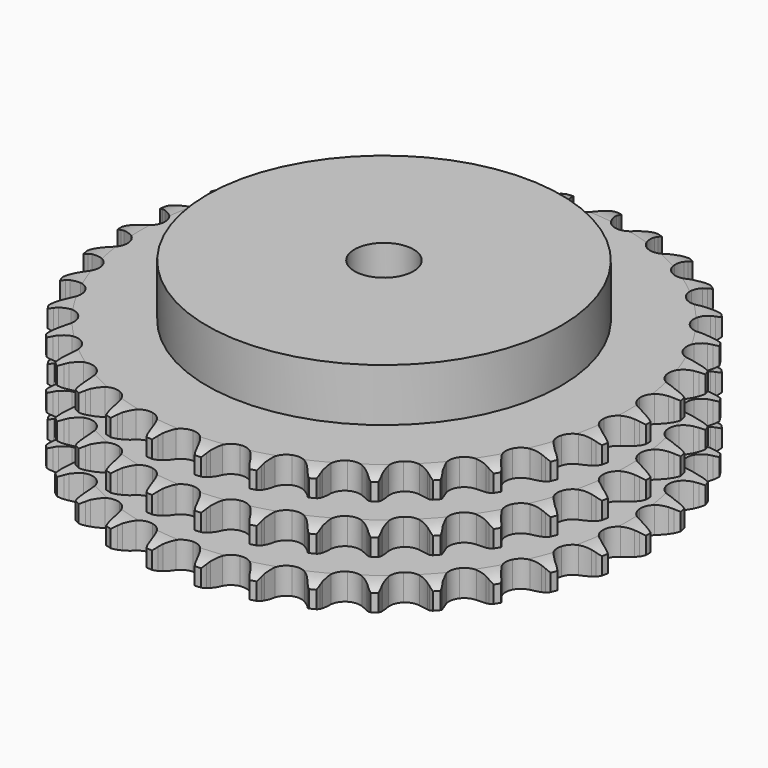
from build123d import *

# Parameters (mm, degrees)
PAD_DEPTH         = 42.1
SKETCH001_R       = 60
PAD001_DEPTH      = 60
SKETCH002_R       = 10
POCKET_DEPTH      = 0.001
POCKET_DEPTH_BACK = 60.001


with BuildPart() as part:
    # Sprocket → Pad (new body)
    with BuildSketch(Plane.XY):
        with BuildLine():
            ThreePointArc((-8.397927, 90.628064), (-7.241962, 89.220797), (-6.422502, 87.594409))
            Line((-6.422502, 87.594409), (-5.926845, 86.262465))
            ThreePointArc((-5.926845, 86.262465), (-5.142113, 84.540527), (-4.120459, 82.947699))
            ThreePointArc((-4.120459, 82.947699), (-2.304465, 81.427867), (0, 80.88274))
            ThreePointArc((0, 80.88274), (2.304465, 81.427867), (4.120459, 82.947699))
            ThreePointArc((4.120459, 82.947699), (5.142113, 84.540527), (5.926845, 86.262465))
            Line((5.926845, 86.262465), (6.422502, 87.594409))
            ThreePointArc((6.422502, 87.594409), (7.241962, 89.220797), (8.397927, 90.628064))
            ThreePointArc((8.397927, 90.628064), (9.275625, 89.032351), (9.782284, 87.28308))
            Line((9.782284, 87.28308), (10.024757, 85.882738))
            ThreePointArc((10.024757, 85.882738), (10.479723, 84.045925), (11.191299, 82.292489))
            ThreePointArc((11.191299, 82.292489), (12.697104, 80.464847), (14.862164, 79.505557))
            ThreePointArc((14.862164, 79.505557), (17.227559, 79.617958), (19.2919, 80.778225))
            Line((19.2919, 80.778225), (21.676616, 83.704628))
            ThreePointArc((21.676616, 83.704628), (22.026279, 84.323527), (22.408577, 84.922816))
            ThreePointArc((22.408577, 84.922816), (23.512932, 86.370937), (24.907799, 87.541834))
            ThreePointArc((24.907799, 87.541834), (25.477341, 85.812014), (25.653946, 83.99943))
            Line((25.653946, 83.99943), (25.634978, 82.578377))
            ThreePointArc((25.634978, 82.578377), (25.744684, 80.689239), (26.121952, 78.834908))
            ThreePointArc((26.121952, 78.834908), (27.266288, 76.761693), (29.218216, 75.420909))
            ThreePointArc((29.218216, 75.420909), (31.563988, 75.096756), (33.806379, 75.857945))
            Line((33.806379, 75.857945), (36.688215, 78.29633))
            ThreePointArc((36.688215, 78.29633), (37.145647, 78.840441), (37.631555, 79.359279))
            ThreePointArc((37.631555, 79.359279), (38.983198, 80.579818), (40.569466, 81.474471))
            ThreePointArc((40.569466, 81.474471), (40.811457, 79.669453), (40.651993, 77.855279))
            Line((40.651993, 77.855279), (40.372231, 76.461908))
            ThreePointArc((40.372231, 76.461908), (40.13294, 74.584778), (40.163052, 72.692697))
            ThreePointArc((40.163052, 72.692697), (40.906952, 70.444512), (42.579276, 68.767891))
            ThreePointArc((42.579276, 68.767891), (44.825544, 68.018223), (47.169622, 68.354413))
            Line((47.169622, 68.354413), (50.450442, 70.221744))
            ThreePointArc((50.450442, 70.221744), (51.000065, 70.672538), (51.573036, 71.093256))
            ThreePointArc((51.573036, 71.093256), (53.125937, 72.044649), (54.849589, 72.632594))
            ThreePointArc((54.849589, 72.632594), (54.755788, 70.813843), (54.265686, 69.059861))
            Line((54.265686, 69.059861), (53.734656, 67.741621))
            ThreePointArc((53.734656, 67.741621), (53.154518, 65.940422), (52.836448, 64.075025))
            ThreePointArc((52.836448, 64.075025), (53.154579, 61.728428), (54.490349, 59.773066))
            ThreePointArc((54.490349, 59.773066), (56.56062, 58.623411), (58.92656, 58.523154))
            Line((58.92656, 58.523154), (62.494639, 59.755841))
            ThreePointArc((62.494639, 59.755841), (63.117736, 60.097966), (63.758258, 60.406238))
            ThreePointArc((63.758258, 60.406238), (65.459537, 61.056087), (67.261874, 61.3173))
            ThreePointArc((67.261874, 61.3173), (66.835476, 59.546753), (66.031425, 57.912692))
            Line((66.031425, 57.912692), (65.267211, 56.714474))
            ThreePointArc((65.267211, 56.714474), (64.365982, 55.050544), (63.710562, 53.275354))
            ThreePointArc((63.710562, 53.275354), (63.59209, 50.910256), (64.54582, 48.74274))
            ThreePointArc((64.54582, 48.74274), (66.369591, 47.23225), (68.676824, 46.698959))
            Line((68.676824, 46.698959), (72.410656, 47.255025))
            ThreePointArc((72.410656, 47.255025), (73.086009, 47.47683), (73.77227, 47.662158))
            ThreePointArc((73.77227, 47.662158), (75.56399, 47.988332), (77.383638, 47.91392))
            ThreePointArc((77.383638, 47.91392), (76.639163, 46.25187), (75.548544, 44.793376))
            Line((75.548544, 44.793376), (74.57717, 43.755984))
            ThreePointArc((74.57717, 43.755984), (73.38554, 42.285986), (72.415089, 40.661455))
            ThreePointArc((72.415089, 40.661455), (71.864049, 38.358396), (72.403259, 36.052539))
            ThreePointArc((72.403259, 36.052539), (73.918426, 34.232651), (76.088382, 33.284488))
            Line((76.088382, 33.284488), (79.860815, 33.144995))
            ThreePointArc((79.860815, 33.144995), (80.565426, 33.238928), (81.274055, 33.295))
            ThreePointArc((81.274055, 33.295), (83.095203, 33.286393), (84.870194, 32.878888))
            ThreePointArc((84.870194, 32.878888), (83.832994, 31.381935), (82.492948, 30.148675))
            Line((82.492948, 30.148675), (81.347493, 29.307436))
            ThreePointArc((81.347493, 29.307436), (79.906041, 28.081429), (78.653607, 26.662879))
            ThreePointArc((78.653607, 26.662879), (77.688764, 24.500287), (77.795093, 22.134612))
            ThreePointArc((77.795093, 22.134612), (78.950057, 20.0673), (80.908841, 18.736552))
            Line((80.908841, 18.736552), (84.591409, 17.906252))
            ThreePointArc((84.591409, 17.906252), (85.301283, 17.869114), (86.00815, 17.794021))
            ThreePointArc((86.00815, 17.794021), (87.796708, 17.450926), (89.466597, 16.724205))
            ThreePointArc((89.466597, 16.724205), (88.171993, 15.443326), (86.628153, 14.477297))
            Line((86.628153, 14.477297), (85.347625, 13.860859))
            ThreePointArc((85.347625, 13.860859), (83.705438, 12.920593), (82.213671, 11.75633))
            ThreePointArc((82.213671, 11.75633), (80.867881, 9.807851), (80.537708, 7.462918))
            ThreePointArc((80.537708, 7.462918), (81.293139, 5.218581), (82.974047, 3.550566))
            Line((82.974047, 3.550566), (86.441345, 2.057734))
            ThreePointArc((86.441345, 2.057734), (87.132308, 1.890789), (87.813341, 1.687088))
            ThreePointArc((87.813341, 1.687088), (89.508401, 1.021188), (91.016323, 0))
            ThreePointArc((91.016323, 0), (89.508401, -1.021188), (87.813341, -1.687088))
            Line((87.813341, -1.687088), (86.441345, -2.057734))
            ThreePointArc((86.441345, -2.057734), (84.654346, -2.680238), (82.974047, -3.550566))
            ThreePointArc((82.974047, -3.550566), (81.293139, -5.218581), (80.537708, -7.462918))
            ThreePointArc((80.537708, -7.462918), (80.867881, -9.807851), (82.213671, -11.75633))
            Line((82.213671, -11.75633), (85.347625, -13.860859))
            ThreePointArc((85.347625, -13.860859), (85.996146, -14.151925), (86.628153, -14.477297))
            ThreePointArc((86.628153, -14.477297), (88.171993, -15.443326), (89.466597, -16.724205))
            ThreePointArc((89.466597, -16.724205), (87.796708, -17.450926), (86.00815, -17.794021))
            Line((86.00815, -17.794021), (84.591409, -17.906252))
            ThreePointArc((84.591409, -17.906252), (82.720453, -18.189798), (80.908841, -18.736552))
            ThreePointArc((80.908841, -18.736552), (78.950057, -20.0673), (77.795093, -22.134612))
            ThreePointArc((77.795093, -22.134612), (77.688764, -24.500287), (78.653607, -26.662879))
            Line((78.653607, -26.662879), (81.347493, -29.307436))
            ThreePointArc((81.347493, -29.307436), (81.931489, -29.712712), (82.492948, -30.148675))
            ThreePointArc((82.492948, -30.148675), (83.832994, -31.381935), (84.870194, -32.878888))
            ThreePointArc((84.870194, -32.878888), (83.095203, -33.286393), (81.274055, -33.295))
            Line((81.274055, -33.295), (79.860815, -33.144995))
            ThreePointArc((79.860815, -33.144995), (77.969613, -33.079925), (76.088382, -33.284488))
            ThreePointArc((76.088382, -33.284488), (73.918426, -34.232651), (72.403259, -36.052539))
            ThreePointArc((72.403259, -36.052539), (71.864049, -38.358396), (72.415089, -40.661455))
            Line((72.415089, -40.661455), (74.57717, -43.755984))
            ThreePointArc((74.57717, -43.755984), (75.076753, -44.261668), (75.548544, -44.793376))
            ThreePointArc((75.548544, -44.793376), (76.639163, -46.25187), (77.383638, -47.91392))
            ThreePointArc((77.383638, -47.91392), (75.56399, -47.988332), (73.77227, -47.662158))
            Line((73.77227, -47.662158), (72.410656, -47.255025))
            ThreePointArc((72.410656, -47.255025), (70.563612, -46.843555), (68.676824, -46.698959))
            ThreePointArc((68.676824, -46.698959), (66.369591, -47.23225), (64.54582, -48.74274))
            ThreePointArc((64.54582, -48.74274), (63.59209, -50.910256), (63.710562, -53.275354))
            Line((63.710562, -53.275354), (65.267211, -56.714474))
            ThreePointArc((65.267211, -56.714474), (65.665369, -57.303346), (66.031425, -57.912692))
            ThreePointArc((66.031425, -57.912692), (66.835476, -59.546753), (67.261874, -61.3173))
            ThreePointArc((67.261874, -61.3173), (65.459537, -61.056087), (63.758258, -60.406238))
            Line((63.758258, -60.406238), (62.494639, -59.755841))
            ThreePointArc((62.494639, -59.755841), (60.754652, -59.011984), (58.92656, -58.523154))
            ThreePointArc((58.92656, -58.523154), (56.56062, -58.623411), (54.490349, -59.773066))
            ThreePointArc((54.490349, -59.773066), (53.154579, -61.728428), (52.836448, -64.075025))
            Line((52.836448, -64.075025), (53.734656, -67.741621))
            ThreePointArc((53.734656, -67.741621), (54.017829, -68.393628), (54.265686, -69.059861))
            ThreePointArc((54.265686, -69.059861), (54.755788, -70.813843), (54.849589, -72.632594))
            ThreePointArc((54.849589, -72.632594), (53.125937, -72.044649), (51.573036, -71.093256))
            Line((51.573036, -71.093256), (50.450442, -70.221744))
            ThreePointArc((50.450442, -70.221744), (48.876765, -69.170831), (47.169622, -68.354413))
            ThreePointArc((47.169622, -68.354413), (44.825544, -68.018223), (42.579276, -68.767891))
            ThreePointArc((42.579276, -68.767891), (40.906952, -70.444512), (40.163052, -72.692697))
            Line((40.163052, -72.692697), (40.372231, -76.461908))
            ThreePointArc((40.372231, -76.461908), (40.530776, -77.154846), (40.651993, -77.855279))
            ThreePointArc((40.651993, -77.855279), (40.811457, -79.669453), (40.569466, -81.474471))
            ThreePointArc((40.569466, -81.474471), (38.983198, -80.579818), (37.631555, -79.359279))
            Line((37.631555, -79.359279), (36.688215, -78.29633))
            ThreePointArc((36.688215, -78.29633), (35.334438, -76.974148), (33.806379, -75.857945))
            ThreePointArc((33.806379, -75.857945), (31.563988, -75.096756), (29.218216, -75.420909))
            ThreePointArc((29.218216, -75.420909), (27.266288, -76.761693), (26.121952, -78.834908))
            Line((26.121952, -78.834908), (25.634978, -82.578377))
            ThreePointArc((25.634978, -82.578377), (25.663497, -83.288649), (25.653946, -83.99943))
            ThreePointArc((25.653946, -83.99943), (25.477341, -85.812014), (24.907799, -87.541834))
            ThreePointArc((24.907799, -87.541834), (23.512932, -86.370937), (22.408577, -84.922816))
            Line((22.408577, -84.922816), (21.676616, -83.704628))
            ThreePointArc((21.676616, -83.704628), (20.58884, -82.156203), (19.2919, -80.778225))
            ThreePointArc((19.2919, -80.778225), (17.227559, -79.617958), (14.862164, -79.505557))
            ThreePointArc((14.862164, -79.505557), (12.697104, -80.464847), (11.191299, -82.292489))
            Line((11.191299, -82.292489), (10.024757, -85.882738))
            ThreePointArc((10.024757, -85.882738), (9.922278, -86.586157), (9.782284, -87.28308))
            ThreePointArc((9.782284, -87.28308), (9.275625, -89.032351), (8.397927, -90.628064))
            ThreePointArc((8.397927, -90.628064), (7.241962, -89.220797), (6.422502, -87.594409))
            Line((6.422502, -87.594409), (5.926845, -86.262465))
            ThreePointArc((5.926845, -86.262465), (5.142113, -84.540527), (4.120459, -82.947699))
            ThreePointArc((4.120459, -82.947699), (2.304465, -81.427867), (0, -80.88274))
            ThreePointArc((0, -80.88274), (-2.304465, -81.427867), (-4.120459, -82.947699))
            Line((-4.120459, -82.947699), (-5.926845, -86.262465))
            ThreePointArc((-5.926845, -86.262465), (-6.156832, -86.935077), (-6.422502, -87.594409))
            ThreePointArc((-6.422502, -87.594409), (-7.241962, -89.220797), (-8.397927, -90.628064))
            ThreePointArc((-8.397927, -90.628064), (-9.275625, -89.032351), (-9.782284, -87.28308))
            Line((-9.782284, -87.28308), (-10.024757, -85.882738))
            ThreePointArc((-10.024757, -85.882738), (-10.479723, -84.045925), (-11.191299, -82.292489))
            ThreePointArc((-11.191299, -82.292489), (-12.697104, -80.464847), (-14.862164, -79.505557))
            ThreePointArc((-14.862164, -79.505557), (-17.227559, -79.617958), (-19.2919, -80.778225))
            Line((-19.2919, -80.778225), (-21.676616, -83.704628))
            ThreePointArc((-21.676616, -83.704628), (-22.026279, -84.323527), (-22.408577, -84.922816))
            ThreePointArc((-22.408577, -84.922816), (-23.512932, -86.370937), (-24.907799, -87.541834))
            ThreePointArc((-24.907799, -87.541834), (-25.477341, -85.812014), (-25.653946, -83.99943))
            Line((-25.653946, -83.99943), (-25.634978, -82.578377))
            ThreePointArc((-25.634978, -82.578377), (-25.744684, -80.689239), (-26.121952, -78.834908))
            ThreePointArc((-26.121952, -78.834908), (-27.266288, -76.761693), (-29.218216, -75.420909))
            ThreePointArc((-29.218216, -75.420909), (-31.563988, -75.096756), (-33.806379, -75.857945))
            Line((-33.806379, -75.857945), (-36.688215, -78.29633))
            ThreePointArc((-36.688215, -78.29633), (-37.145647, -78.840441), (-37.631555, -79.359279))
            ThreePointArc((-37.631555, -79.359279), (-38.983198, -80.579818), (-40.569466, -81.474471))
            ThreePointArc((-40.569466, -81.474471), (-40.811457, -79.669453), (-40.651993, -77.855279))
            Line((-40.651993, -77.855279), (-40.372231, -76.461908))
            ThreePointArc((-40.372231, -76.461908), (-40.13294, -74.584778), (-40.163052, -72.692697))
            ThreePointArc((-40.163052, -72.692697), (-40.906952, -70.444512), (-42.579276, -68.767891))
            ThreePointArc((-42.579276, -68.767891), (-44.825544, -68.018223), (-47.169622, -68.354413))
            Line((-47.169622, -68.354413), (-50.450442, -70.221744))
            ThreePointArc((-50.450442, -70.221744), (-51.000065, -70.672538), (-51.573036, -71.093256))
            ThreePointArc((-51.573036, -71.093256), (-53.125937, -72.044649), (-54.849589, -72.632594))
            ThreePointArc((-54.849589, -72.632594), (-54.755788, -70.813843), (-54.265686, -69.059861))
            Line((-54.265686, -69.059861), (-53.734656, -67.741621))
            ThreePointArc((-53.734656, -67.741621), (-53.154518, -65.940422), (-52.836448, -64.075025))
            ThreePointArc((-52.836448, -64.075025), (-53.154579, -61.728428), (-54.490349, -59.773066))
            ThreePointArc((-54.490349, -59.773066), (-56.56062, -58.623411), (-58.92656, -58.523154))
            Line((-58.92656, -58.523154), (-62.494639, -59.755841))
            ThreePointArc((-62.494639, -59.755841), (-63.117736, -60.097966), (-63.758258, -60.406238))
            ThreePointArc((-63.758258, -60.406238), (-65.459537, -61.056087), (-67.261874, -61.3173))
            ThreePointArc((-67.261874, -61.3173), (-66.835476, -59.546753), (-66.031425, -57.912692))
            Line((-66.031425, -57.912692), (-65.267211, -56.714474))
            ThreePointArc((-65.267211, -56.714474), (-64.365982, -55.050544), (-63.710562, -53.275354))
            ThreePointArc((-63.710562, -53.275354), (-63.59209, -50.910256), (-64.54582, -48.74274))
            ThreePointArc((-64.54582, -48.74274), (-66.369591, -47.23225), (-68.676824, -46.698959))
            Line((-68.676824, -46.698959), (-72.410656, -47.255025))
            ThreePointArc((-72.410656, -47.255025), (-73.086009, -47.47683), (-73.77227, -47.662158))
            ThreePointArc((-73.77227, -47.662158), (-75.56399, -47.988332), (-77.383638, -47.91392))
            ThreePointArc((-77.383638, -47.91392), (-76.639163, -46.25187), (-75.548544, -44.793376))
            Line((-75.548544, -44.793376), (-74.57717, -43.755984))
            ThreePointArc((-74.57717, -43.755984), (-73.38554, -42.285986), (-72.415089, -40.661455))
            ThreePointArc((-72.415089, -40.661455), (-71.864049, -38.358396), (-72.403259, -36.052539))
            ThreePointArc((-72.403259, -36.052539), (-73.918426, -34.232651), (-76.088382, -33.284488))
            Line((-76.088382, -33.284488), (-79.860815, -33.144995))
            ThreePointArc((-79.860815, -33.144995), (-80.565426, -33.238928), (-81.274055, -33.295))
            ThreePointArc((-81.274055, -33.295), (-83.095203, -33.286393), (-84.870194, -32.878888))
            ThreePointArc((-84.870194, -32.878888), (-83.832994, -31.381935), (-82.492948, -30.148675))
            Line((-82.492948, -30.148675), (-81.347493, -29.307436))
            ThreePointArc((-81.347493, -29.307436), (-79.906041, -28.081429), (-78.653607, -26.662879))
            ThreePointArc((-78.653607, -26.662879), (-77.688764, -24.500287), (-77.795093, -22.134612))
            ThreePointArc((-77.795093, -22.134612), (-78.950057, -20.0673), (-80.908841, -18.736552))
            Line((-80.908841, -18.736552), (-84.591409, -17.906252))
            ThreePointArc((-84.591409, -17.906252), (-85.301283, -17.869114), (-86.00815, -17.794021))
            ThreePointArc((-86.00815, -17.794021), (-87.796708, -17.450926), (-89.466597, -16.724205))
            ThreePointArc((-89.466597, -16.724205), (-88.171993, -15.443326), (-86.628153, -14.477297))
            Line((-86.628153, -14.477297), (-85.347625, -13.860859))
            ThreePointArc((-85.347625, -13.860859), (-83.705438, -12.920593), (-82.213671, -11.75633))
            ThreePointArc((-82.213671, -11.75633), (-80.867881, -9.807851), (-80.537708, -7.462918))
            ThreePointArc((-80.537708, -7.462918), (-81.293139, -5.218581), (-82.974047, -3.550566))
            Line((-82.974047, -3.550566), (-86.441345, -2.057734))
            ThreePointArc((-86.441345, -2.057734), (-87.132308, -1.890789), (-87.813341, -1.687088))
            ThreePointArc((-87.813341, -1.687088), (-89.508401, -1.021188), (-91.016323, 0))
            ThreePointArc((-91.016323, 0), (-89.508401, 1.021188), (-87.813341, 1.687088))
            Line((-87.813341, 1.687088), (-86.441345, 2.057734))
            ThreePointArc((-86.441345, 2.057734), (-84.654346, 2.680238), (-82.974047, 3.550566))
            ThreePointArc((-82.974047, 3.550566), (-81.293139, 5.218581), (-80.537708, 7.462918))
            ThreePointArc((-80.537708, 7.462918), (-80.867881, 9.807851), (-82.213671, 11.75633))
            Line((-82.213671, 11.75633), (-85.347625, 13.860859))
            ThreePointArc((-85.347625, 13.860859), (-85.996146, 14.151925), (-86.628153, 14.477297))
            ThreePointArc((-86.628153, 14.477297), (-88.171993, 15.443326), (-89.466597, 16.724205))
            ThreePointArc((-89.466597, 16.724205), (-87.796708, 17.450926), (-86.00815, 17.794021))
            Line((-86.00815, 17.794021), (-84.591409, 17.906252))
            ThreePointArc((-84.591409, 17.906252), (-82.720453, 18.189798), (-80.908841, 18.736552))
            ThreePointArc((-80.908841, 18.736552), (-78.950057, 20.0673), (-77.795093, 22.134612))
            ThreePointArc((-77.795093, 22.134612), (-77.688764, 24.500287), (-78.653607, 26.662879))
            Line((-78.653607, 26.662879), (-81.347493, 29.307436))
            ThreePointArc((-81.347493, 29.307436), (-81.931489, 29.712712), (-82.492948, 30.148675))
            ThreePointArc((-82.492948, 30.148675), (-83.832994, 31.381935), (-84.870194, 32.878888))
            ThreePointArc((-84.870194, 32.878888), (-83.095203, 33.286393), (-81.274055, 33.295))
            Line((-81.274055, 33.295), (-79.860815, 33.144995))
            ThreePointArc((-79.860815, 33.144995), (-77.969613, 33.079925), (-76.088382, 33.284488))
            ThreePointArc((-76.088382, 33.284488), (-73.918426, 34.232651), (-72.403259, 36.052539))
            ThreePointArc((-72.403259, 36.052539), (-71.864049, 38.358396), (-72.415089, 40.661455))
            Line((-72.415089, 40.661455), (-74.57717, 43.755984))
            ThreePointArc((-74.57717, 43.755984), (-75.076753, 44.261668), (-75.548544, 44.793376))
            ThreePointArc((-75.548544, 44.793376), (-76.639163, 46.25187), (-77.383638, 47.91392))
            ThreePointArc((-77.383638, 47.91392), (-75.56399, 47.988332), (-73.77227, 47.662158))
            Line((-73.77227, 47.662158), (-72.410656, 47.255025))
            ThreePointArc((-72.410656, 47.255025), (-70.563612, 46.843555), (-68.676824, 46.698959))
            ThreePointArc((-68.676824, 46.698959), (-66.369591, 47.23225), (-64.54582, 48.74274))
            ThreePointArc((-64.54582, 48.74274), (-63.59209, 50.910256), (-63.710562, 53.275354))
            Line((-63.710562, 53.275354), (-65.267211, 56.714474))
            ThreePointArc((-65.267211, 56.714474), (-65.665369, 57.303346), (-66.031425, 57.912692))
            ThreePointArc((-66.031425, 57.912692), (-66.835476, 59.546753), (-67.261874, 61.3173))
            ThreePointArc((-67.261874, 61.3173), (-65.459537, 61.056087), (-63.758258, 60.406238))
            Line((-63.758258, 60.406238), (-62.494639, 59.755841))
            ThreePointArc((-62.494639, 59.755841), (-60.754652, 59.011984), (-58.92656, 58.523154))
            ThreePointArc((-58.92656, 58.523154), (-56.56062, 58.623411), (-54.490349, 59.773066))
            ThreePointArc((-54.490349, 59.773066), (-53.154579, 61.728428), (-52.836448, 64.075025))
            Line((-52.836448, 64.075025), (-53.734656, 67.741621))
            ThreePointArc((-53.734656, 67.741621), (-54.017829, 68.393628), (-54.265686, 69.059861))
            ThreePointArc((-54.265686, 69.059861), (-54.755788, 70.813843), (-54.849589, 72.632594))
            ThreePointArc((-54.849589, 72.632594), (-53.125937, 72.044649), (-51.573036, 71.093256))
            Line((-51.573036, 71.093256), (-50.450442, 70.221744))
            ThreePointArc((-50.450442, 70.221744), (-48.876765, 69.170831), (-47.169622, 68.354413))
            ThreePointArc((-47.169622, 68.354413), (-44.825544, 68.018223), (-42.579276, 68.767891))
            ThreePointArc((-42.579276, 68.767891), (-40.906952, 70.444512), (-40.163052, 72.692697))
            Line((-40.163052, 72.692697), (-40.372231, 76.461908))
            ThreePointArc((-40.372231, 76.461908), (-40.530776, 77.154846), (-40.651993, 77.855279))
            ThreePointArc((-40.651993, 77.855279), (-40.811457, 79.669453), (-40.569466, 81.474471))
            ThreePointArc((-40.569466, 81.474471), (-38.983198, 80.579818), (-37.631555, 79.359279))
            Line((-37.631555, 79.359279), (-36.688215, 78.29633))
            ThreePointArc((-36.688215, 78.29633), (-35.334438, 76.974148), (-33.806379, 75.857945))
            ThreePointArc((-33.806379, 75.857945), (-31.563988, 75.096756), (-29.218216, 75.420909))
            ThreePointArc((-29.218216, 75.420909), (-27.266288, 76.761693), (-26.121952, 78.834908))
            Line((-26.121952, 78.834908), (-25.634978, 82.578377))
            ThreePointArc((-25.634978, 82.578377), (-25.663497, 83.288649), (-25.653946, 83.99943))
            ThreePointArc((-25.653946, 83.99943), (-25.477341, 85.812014), (-24.907799, 87.541834))
            ThreePointArc((-24.907799, 87.541834), (-23.512932, 86.370937), (-22.408577, 84.922816))
            Line((-22.408577, 84.922816), (-21.676616, 83.704628))
            ThreePointArc((-21.676616, 83.704628), (-20.58884, 82.156203), (-19.2919, 80.778225))
            ThreePointArc((-19.2919, 80.778225), (-17.227559, 79.617958), (-14.862164, 79.505557))
            ThreePointArc((-14.862164, 79.505557), (-12.697104, 80.464847), (-11.191299, 82.292489))
            Line((-11.191299, 82.292489), (-10.024757, 85.882738))
            ThreePointArc((-10.024757, 85.882738), (-9.922278, 86.586157), (-9.782284, 87.28308))
            ThreePointArc((-9.782284, 87.28308), (-9.275625, 89.032351), (-8.397927, 90.628064))
        make_face()
    extrude(amount=PAD_DEPTH)

    # Sketch → Groove (revolve, cut)
    with BuildSketch(Plane.XZ):
        with BuildLine():
            ThreePointArc((82.525762, 0), (86.10347, 0.405129), (89.5, 1.6))
            Line((89.5, 1.6), (89.5, 7.4))
            ThreePointArc((89.5, 7.4), (86.10347, 8.594871), (82.525762, 9))
            Line((60, 9), (82.525762, 9))
            Line((60, 9), (60, 16.55))
            Line((60, 16.55), (82.525762, 16.55))
            ThreePointArc((82.525762, 16.55), (86.10347, 16.955129), (89.5, 18.15))
            Line((89.5, 23.95), (89.5, 18.15))
            ThreePointArc((89.5, 23.95), (86.10347, 25.144871), (82.525762, 25.55))
            Line((60, 25.55), (82.525762, 25.55))
            Line((60, 33.1), (60, 25.55))
            Line((82.525762, 33.1), (60, 33.1))
            ThreePointArc((82.525762, 33.1), (86.10347, 33.505129), (89.5, 34.7))
            Line((89.5, 34.7), (89.5, 40.5))
            ThreePointArc((89.5, 40.5), (86.10347, 41.694871), (82.525762, 42.1))
            Line((82.525762, 42.1), (99.5, 42.1))
            Line((99.5, 42.1), (99.5, 0))
            Line((82.525762, 0), (99.5, 0))
        make_face()
    revolve(axis=Axis((0, 0, 0), (0, 0, 1)), mode=Mode.SUBTRACT)

    # Sketch001 → Pad001 (join)
    with BuildSketch(Plane.XY):
        Circle(SKETCH001_R)
    extrude(amount=PAD001_DEPTH)

    # Sketch002 → Pocket (cut, two sides)
    with BuildSketch(Plane.XY) as pocket_sk:
        Circle(SKETCH002_R)
    extrude(amount=-POCKET_DEPTH, mode=Mode.SUBTRACT)
    extrude(pocket_sk.sketch, amount=POCKET_DEPTH_BACK, mode=Mode.SUBTRACT)


solid = part.part
